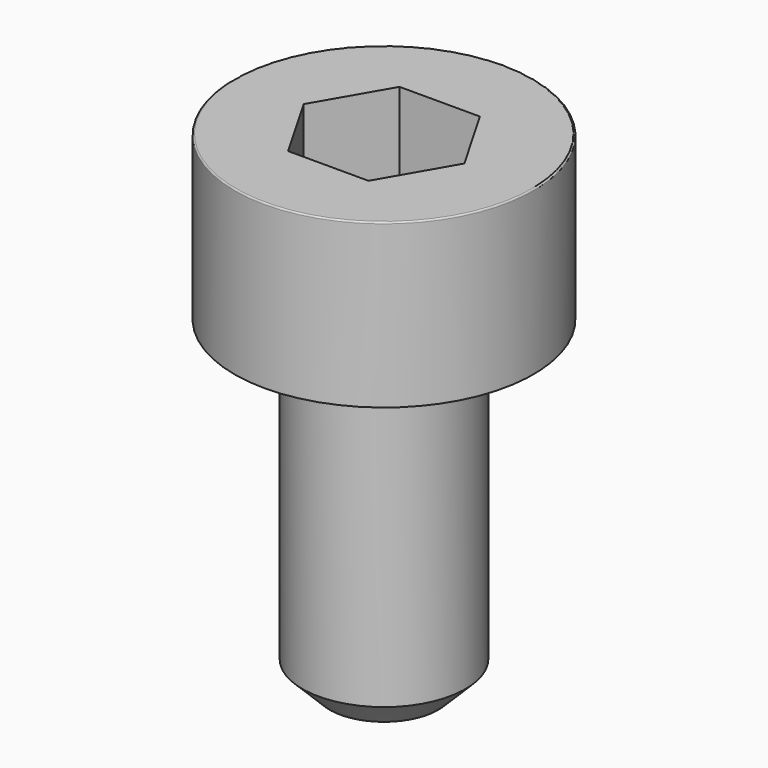
from build123d import *

# Parameters (mm, degrees)
POCKET_DEPTH = 2.56


with BuildPart() as part:
    # Sketch → Revolve (revolve)
    with BuildSketch(Plane.YZ):
        with BuildLine():
            Line((1.499, 0), (2.75, 0))
            Line((2.75, 0), (2.75, 2.97229))
            ThreePointArc((2.75, 2.97229), (2.741884, 2.991884), (2.72229, 3))
            Line((2.72229, 3), (0, 3))
            Line((0, -6), (0, 3))
            Line((1, -6), (0, -6))
            Line((1.5, -5.5), (1, -6))
            Line((1.5, -0.2), (1.5, -5.5))
            Line((1.499, 0), (1.5, -0.2))
        make_face()
    revolve(axis=Axis((0, 0, 0), (0, 0, 1)))

    # Sketch001 → Pocket (cut)
    with BuildSketch(Plane.XY.offset(3)):
        Polygon((1.478017, 0), (0.739008, 1.28), (-0.739008, 1.28), (-1.478017, 0), (-0.739008, -1.28), (0.739008, -1.28), align=None)
    extrude(amount=-POCKET_DEPTH, mode=Mode.SUBTRACT)


solid = part.part
